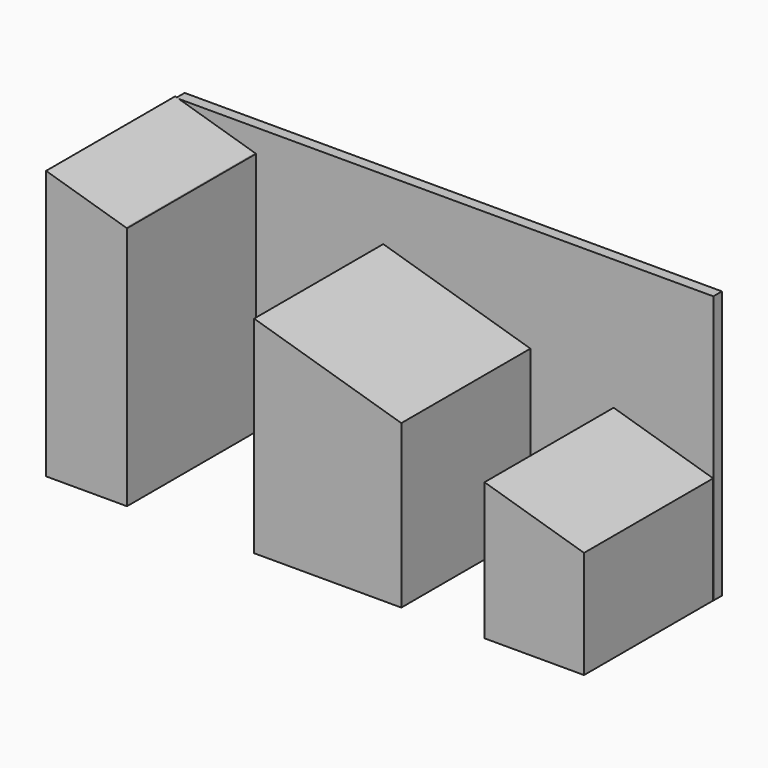
from build123d import *

# Parameters (mm, degrees)
F1_DEPTH = 30
F3_DEPTH = 30.001
F5_DEPTH = 2


with BuildPart() as f1:
    # F0 (on Front) → F1 (new body)
    with BuildSketch(Plane.XZ):
        Polygon((-42.8425073624, 38.4018848052), (-42.8425073624, 0), (-15.4858445749, 0), (-15.4858445749, 30.194885969), align=None)
        Polygon((-66.6515186782, 45.5445881999), (-66.6515186782, 0), (-42.8425073624, 0), (-42.8425073624, 38.4018848052), align=None)
        Polygon((-81.502891345, 50), (-81.502891345, 0), (-66.6515186782, 0), (-66.6515186782, 45.5445881999), align=None)
        Polygon((-15.4858445749, 30.194885969), (-15.4858445749, 0), (18.497108655, 0), (18.497108655, 20), align=None)
    extrude(amount=F1_DEPTH)

    # F2 (on face) → F3 (cut, through all)
    with BuildSketch(Plane.XZ.offset(30)):
        Polygon((-66.4639249444, 45.4883100798), (-66.4639249444, 0), (-42.8256466985, 0), (-42.8256466985, 38.396826606), align=None)
        Polygon((-15.4689829797, 30.1898274904), (-15.4689829797, 0), (0, 0), (0, 25.5491325965), align=None)
    extrude(amount=-F3_DEPTH, mode=Mode.SUBTRACT)

    # F4 (on Front) → F5 (join)
    with BuildSketch(Plane.XZ):
        Polygon((18.5276474804, 49.7997477651), (-81.3374519348, 49.7997477651), (18.5276474804, 20.3182976693), align=None)
        Polygon((-81.3374519348, 0), (-81.3374519348, 49.7997477651), (-82.1342468262, 0), align=None)
        Polygon((18.5276474804, 20.3182976693), (-81.3374519348, 49.7997477651), (-81.3374519348, 0), (0, 0), (18.5276474804, 0), align=None)
    extrude(amount=-F5_DEPTH)


solid = f1.part
